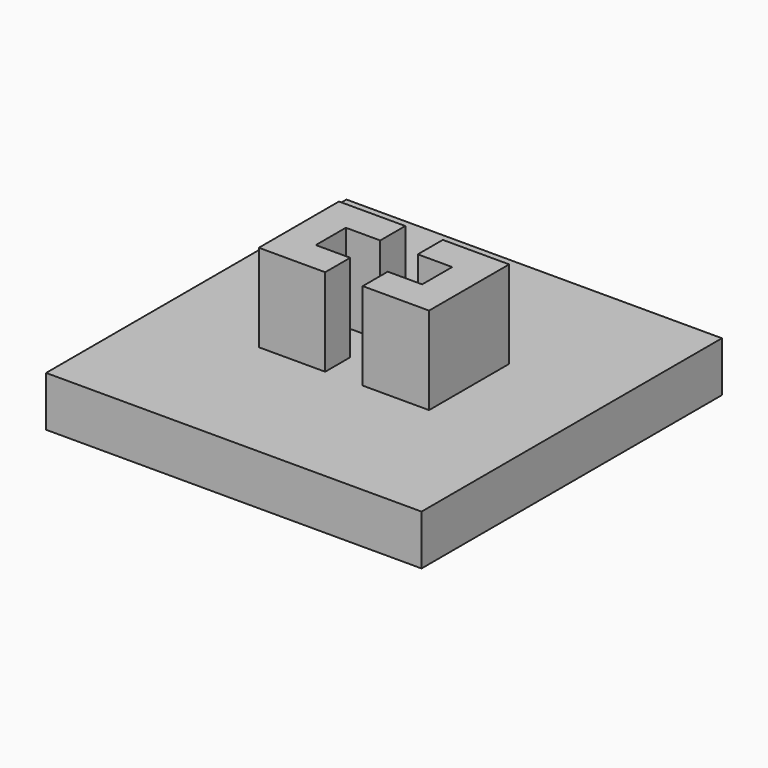
from build123d import *

# Parameters (mm, degrees)
F0_W     = 15
F0_H     = 15
F1_DEPTH = 2
F3_DEPTH = 3.5


with BuildPart() as f1:
    # F0 (on Top) → F1 (new body)
    with BuildSketch(Plane.XY):
        Rectangle(F0_W, F0_H)
        Rectangle(F0_W, F0_H)
    extrude(amount=F1_DEPTH)

    # F2 (on face) → F3 (join)
    with BuildSketch(Plane.XY.offset(2)):
        Polygon((-3.4, -2), (-0.75, -2), (-0.75, -0.75), (-2.125, -0.75), (-2.125, 0.75), (-0.75, 0.75), (-0.75, 2), (-3.4, 2), align=None)
        Polygon((0.75, -2), (3.4, -2), (3.4, 2), (0.75, 2), (0.75, 0.75), (2.125, 0.75), (2.125, -0.75), (0.75, -0.75), align=None)
    extrude(amount=F3_DEPTH)


solid = f1.part
